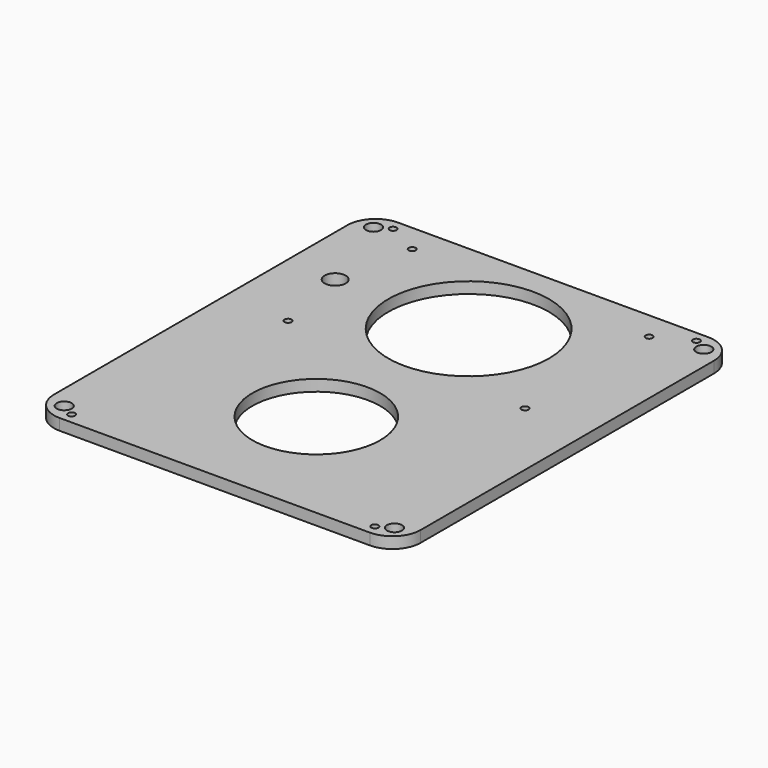
from build123d import *

# Parameters (mm, degrees)
F0_R     = 28.7655
F0_R_2   = 36.195
F1_DEPTH = 5.08
F3_D     = 6.7564
F5_D     = 3.175
F7_D     = 3.175
F9_D     = 9.525


with BuildPart() as f1:
    # F0 (on Top) → F1 (new body)
    with BuildSketch(Plane.XY):
        with BuildLine():
            Line((152.4, 0), (12.7, 0))
            ThreePointArc((12.7, 0), (3.7197438789, -3.7197438789), (0, -12.7))
            Line((0, -12.7), (0, -177.8))
            ThreePointArc((0, -177.8), (3.7197438789, -186.7802561211), (12.7, -190.5))
            Line((12.7, -190.5), (152.4, -190.5))
            ThreePointArc((152.4, -190.5), (161.3802561211, -186.7802561211), (165.1, -177.8))
            Line((165.1, -177.8), (165.1, -12.7))
            ThreePointArc((165.1, -12.7), (161.3802561211, -3.7197438789), (152.4, 0))
        make_face()
        with Locations((82.55, -133.35)):
            Circle(F0_R, mode=Mode.SUBTRACT)
        with Locations((82.55, -47.625)):
            Circle(F0_R_2, mode=Mode.SUBTRACT)
    extrude(amount=F1_DEPTH)

    # F3 (through all)
    with Locations(Plane.XY.offset(5.08)):
        with Locations((8.2098719395, -8.2098719395), (156.8901280605, -8.2098719395), (156.8901280605, -182.2901280605), (8.2098719395, -182.2901280605)):
            Hole(F3_D / 2)

    # F5 (through all)
    with Locations(Plane.XY.offset(5.08)):
        with Locations((14.2875, -185.7248), (150.8125, -185.7248), (150.8125, -4.7752), (14.2875, -4.7752)):
            Hole(F5_D / 2)

    # F7 (through all)
    with Locations(Plane.XY.offset(5.08)):
        with Locations((29.21, -82.55), (29.21, -12.7), (135.89, -12.7), (135.89, -82.55)):
            Hole(F7_D / 2)

    # F9 (through all)
    with Locations(Plane.XY.offset(5.08)):
        with Locations((22.479, -47.625)):
            Hole(F9_D / 2)


solid = f1.part
